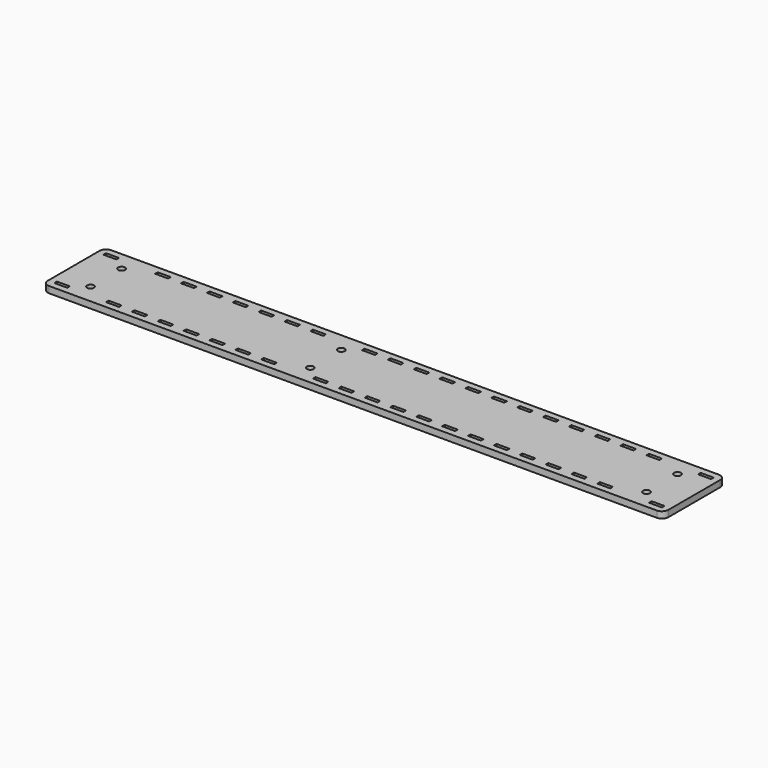
from build123d import *

# Parameters (mm, degrees)
F0_W     = 12.7
F0_H     = 3.175
F0_R     = 3.3782
F1_DEPTH = 6.35
F2_R     = 6.35


with BuildPart() as f1:
    # F0 (on Top) → F1 (new body)
    with BuildSketch(Plane.XY):
        Polygon((0, 69.85), (0, 0), (609.6, 0), (609.6, 76.2), (0, 76.2), align=None)
        with Locations((12.7, 7.9375)):
            Rectangle(F0_W, F0_H, mode=Mode.SUBTRACT)
        with Locations((63.5, 7.9375)):
            Rectangle(F0_W, F0_H, mode=Mode.SUBTRACT)
        with Locations((88.9, 7.9375)):
            Rectangle(F0_W, F0_H, mode=Mode.SUBTRACT)
        with Locations((114.3, 7.9375)):
            Rectangle(F0_W, F0_H, mode=Mode.SUBTRACT)
        with Locations((139.7, 7.9375)):
            Rectangle(F0_W, F0_H, mode=Mode.SUBTRACT)
        with Locations((165.1, 7.9375)):
            Rectangle(F0_W, F0_H, mode=Mode.SUBTRACT)
        with Locations((190.5, 7.9375)):
            Rectangle(F0_W, F0_H, mode=Mode.SUBTRACT)
        with Locations((215.9, 7.9375)):
            Rectangle(F0_W, F0_H, mode=Mode.SUBTRACT)
        with Locations((266.7, 7.9375)):
            Rectangle(F0_W, F0_H, mode=Mode.SUBTRACT)
        with Locations((292.1, 7.9375)):
            Rectangle(F0_W, F0_H, mode=Mode.SUBTRACT)
        with Locations((31.75, 19.05)):
            Circle(F0_R, mode=Mode.SUBTRACT)
        with Locations((247.65, 19.05)):
            Circle(F0_R, mode=Mode.SUBTRACT)
        with Locations((317.5, 7.9375)):
            Rectangle(F0_W, F0_H, mode=Mode.SUBTRACT)
        with Locations((342.9, 7.9375)):
            Rectangle(F0_W, F0_H, mode=Mode.SUBTRACT)
        with Locations((368.3, 7.9375)):
            Rectangle(F0_W, F0_H, mode=Mode.SUBTRACT)
        with Locations((393.7, 7.9375)):
            Rectangle(F0_W, F0_H, mode=Mode.SUBTRACT)
        with Locations((419.1, 7.9375)):
            Rectangle(F0_W, F0_H, mode=Mode.SUBTRACT)
        with Locations((444.5, 7.9375)):
            Rectangle(F0_W, F0_H, mode=Mode.SUBTRACT)
        with Locations((469.9, 7.9375)):
            Rectangle(F0_W, F0_H, mode=Mode.SUBTRACT)
        with Locations((495.3, 7.9375)):
            Rectangle(F0_W, F0_H, mode=Mode.SUBTRACT)
        with Locations((520.7, 7.9375)):
            Rectangle(F0_W, F0_H, mode=Mode.SUBTRACT)
        with Locations((546.1, 7.9375)):
            Rectangle(F0_W, F0_H, mode=Mode.SUBTRACT)
        with Locations((596.9, 7.9375)):
            Rectangle(F0_W, F0_H, mode=Mode.SUBTRACT)
        with Locations((577.85, 19.05)):
            Circle(F0_R, mode=Mode.SUBTRACT)
        with Locations((31.75, 57.15)):
            Circle(F0_R, mode=Mode.SUBTRACT)
        with Locations((12.7, 68.2625)):
            Rectangle(F0_W, F0_H, mode=Mode.SUBTRACT)
        with Locations((63.5, 68.2625)):
            Rectangle(F0_W, F0_H, mode=Mode.SUBTRACT)
        with Locations((88.9, 68.2625)):
            Rectangle(F0_W, F0_H, mode=Mode.SUBTRACT)
        with Locations((114.3, 68.2625)):
            Rectangle(F0_W, F0_H, mode=Mode.SUBTRACT)
        with Locations((139.7, 68.2625)):
            Rectangle(F0_W, F0_H, mode=Mode.SUBTRACT)
        with Locations((247.65, 57.15)):
            Circle(F0_R, mode=Mode.SUBTRACT)
        with Locations((165.1, 68.2625)):
            Rectangle(F0_W, F0_H, mode=Mode.SUBTRACT)
        with Locations((190.5, 68.2625)):
            Rectangle(F0_W, F0_H, mode=Mode.SUBTRACT)
        with Locations((215.9, 68.2625)):
            Rectangle(F0_W, F0_H, mode=Mode.SUBTRACT)
        with Locations((266.7, 68.2625)):
            Rectangle(F0_W, F0_H, mode=Mode.SUBTRACT)
        with Locations((292.1, 68.2625)):
            Rectangle(F0_W, F0_H, mode=Mode.SUBTRACT)
        with Locations((317.5, 68.2625)):
            Rectangle(F0_W, F0_H, mode=Mode.SUBTRACT)
        with Locations((342.9, 68.2625)):
            Rectangle(F0_W, F0_H, mode=Mode.SUBTRACT)
        with Locations((368.3, 68.2625)):
            Rectangle(F0_W, F0_H, mode=Mode.SUBTRACT)
        with Locations((393.7, 68.2625)):
            Rectangle(F0_W, F0_H, mode=Mode.SUBTRACT)
        with Locations((419.1, 68.2625)):
            Rectangle(F0_W, F0_H, mode=Mode.SUBTRACT)
        with Locations((444.5, 68.2625)):
            Rectangle(F0_W, F0_H, mode=Mode.SUBTRACT)
        with Locations((577.85, 57.15)):
            Circle(F0_R, mode=Mode.SUBTRACT)
        with Locations((469.9, 68.2625)):
            Rectangle(F0_W, F0_H, mode=Mode.SUBTRACT)
        with Locations((495.3, 68.2625)):
            Rectangle(F0_W, F0_H, mode=Mode.SUBTRACT)
        with Locations((520.7, 68.2625)):
            Rectangle(F0_W, F0_H, mode=Mode.SUBTRACT)
        with Locations((546.1, 68.2625)):
            Rectangle(F0_W, F0_H, mode=Mode.SUBTRACT)
        with Locations((596.9, 68.2625)):
            Rectangle(F0_W, F0_H, mode=Mode.SUBTRACT)
    extrude(amount=F1_DEPTH)

    # F2
    f2_edges = [f1.edges().sort_by_distance(p)[0] for p in [
        (609.6, 76.2, 3.175),
        (609.6, 0, 3.175),
        (0, 76.2, 3.175),
        (0, 0, 3.175),
    ]]
    fillet(f2_edges, radius=F2_R)


solid = f1.part
